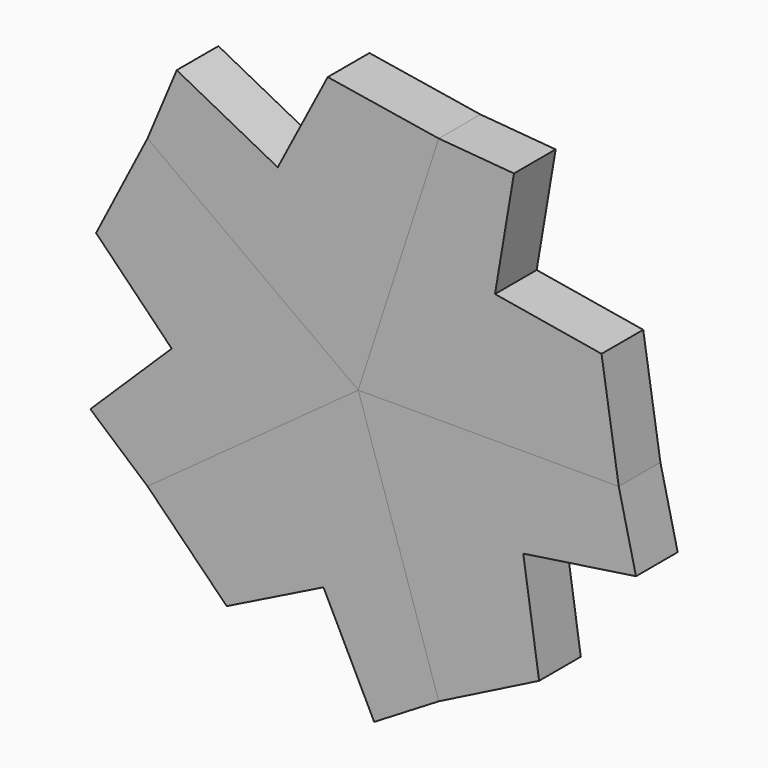
from build123d import *

# Parameters (mm, degrees)
F1_DEPTH = 25.4
F2_COUNT = 5


with BuildPart() as f1:
    # F0 (on Front) → F1 (new body)
    with BuildSketch(Plane.XZ):
        Polygon((39.245158, 120.784178), (0, 0), (127, 0), (118.624489, 54.177656), (66.681415, 62.947266), (75.927906, 117.714942), align=None)
    extrude(amount=F1_DEPTH)


with BuildPart() as f2_1:
    # F2: instance of F1
    add(f1.part.rotate(Axis((0, -12.7, 0), (0, -1, 0)), 1 * 360 / F2_COUNT))


with BuildPart() as f2_2:
    # F2: instance of F1
    add(f1.part.rotate(Axis((0, -12.7, 0), (0, -1, 0)), 2 * 360 / F2_COUNT))


with BuildPart() as f2_3:
    # F2: instance of F1
    add(f1.part.rotate(Axis((0, -12.7, 0), (0, -1, 0)), 3 * 360 / F2_COUNT))


with BuildPart() as f2_4:
    # F2: instance of F1
    add(f1.part.rotate(Axis((0, -12.7, 0), (0, -1, 0)), 4 * 360 / F2_COUNT))


solid = Compound([f1.part, f2_1.part, f2_2.part, f2_3.part, f2_4.part])
